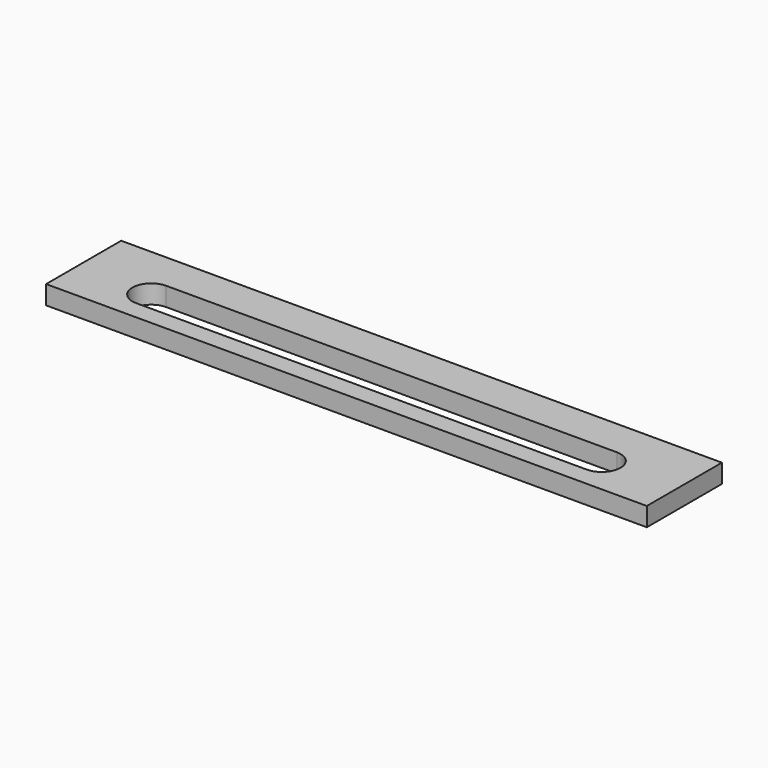
from build123d import *

# Parameters (mm, degrees)
F0_W     = 101.6
F0_H     = 15.875
F1_DEPTH = 3.175


with BuildPart() as f1:
    # F0 (on Top) → F1 (new body)
    with BuildSketch(Plane.XY):
        with Locations((50.8, 7.9375)):
            Rectangle(F0_W, F0_H)
        with BuildLine():
            ThreePointArc((12.7, 3.175), (9.525, 6.35), (12.7, 9.525))
            Line((12.7, 9.525), (88.9, 9.525))
            ThreePointArc((88.9, 9.525), (92.075, 6.35), (88.9, 3.175))
            Line((88.9, 3.175), (12.7, 3.175))
        make_face(mode=Mode.SUBTRACT)
    extrude(amount=F1_DEPTH)


solid = f1.part
